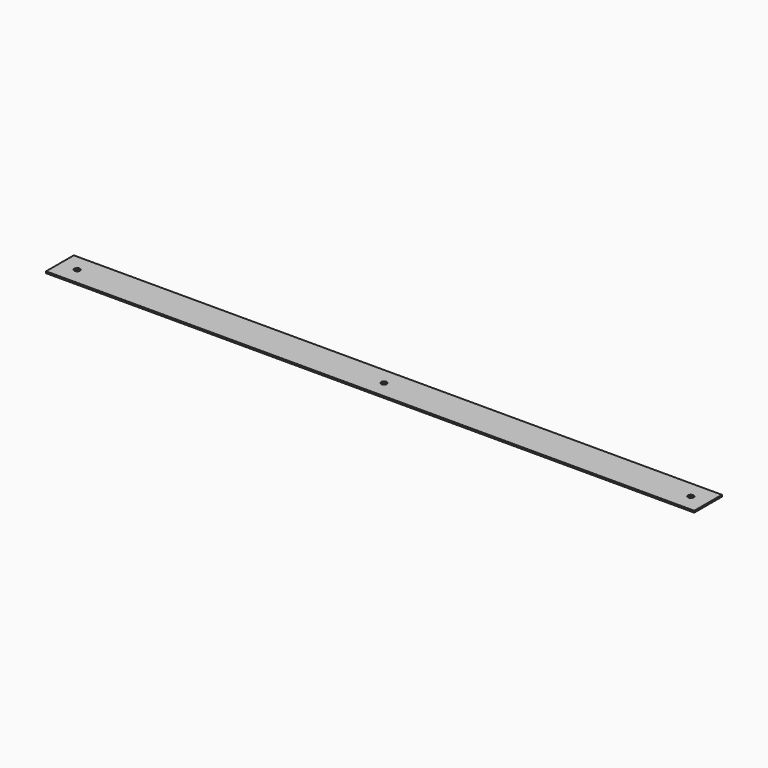
from build123d import *

# Parameters (mm, degrees)
F0_W     = 40
F0_H     = 2
F1_DEPTH = 750
F2_R     = 3.25
F3_DEPTH = 25


with BuildPart() as f1:
    # F0 (on Right) → F1 (new body)
    with BuildSketch(Plane.YZ):
        Rectangle(F0_W, F0_H)
    extrude(amount=F1_DEPTH)

    # F2 (on face) → F3 (cut)
    with BuildSketch(Plane.XY.offset(1)):
        with Locations((730, 0)):
            Circle(F2_R)
        with Locations((20, 0)):
            Circle(F2_R)
        with Locations((375, 0)):
            Circle(F2_R)
    extrude(amount=-F3_DEPTH, mode=Mode.SUBTRACT)


solid = f1.part
